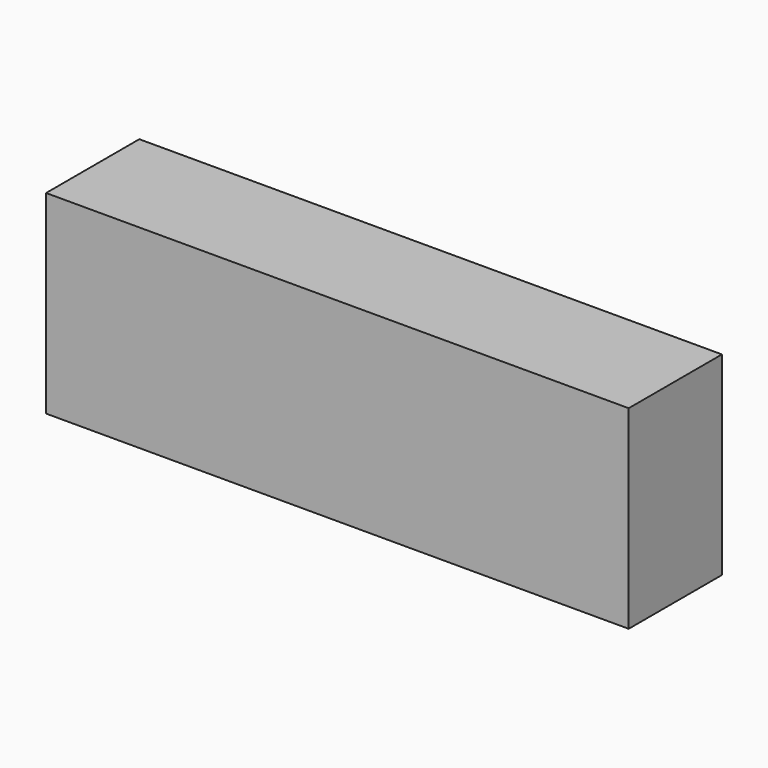
from build123d import *

# Parameters (mm, degrees)
SKETCH_W      = 150
SKETCH_H      = 30
EXTRUDE_DEPTH = 50


with BuildPart() as part:
    # Sketch → Extrude (new body)
    with BuildSketch(Plane.XY):
        Rectangle(SKETCH_W, SKETCH_H)
    extrude(amount=EXTRUDE_DEPTH)


solid = part.part
